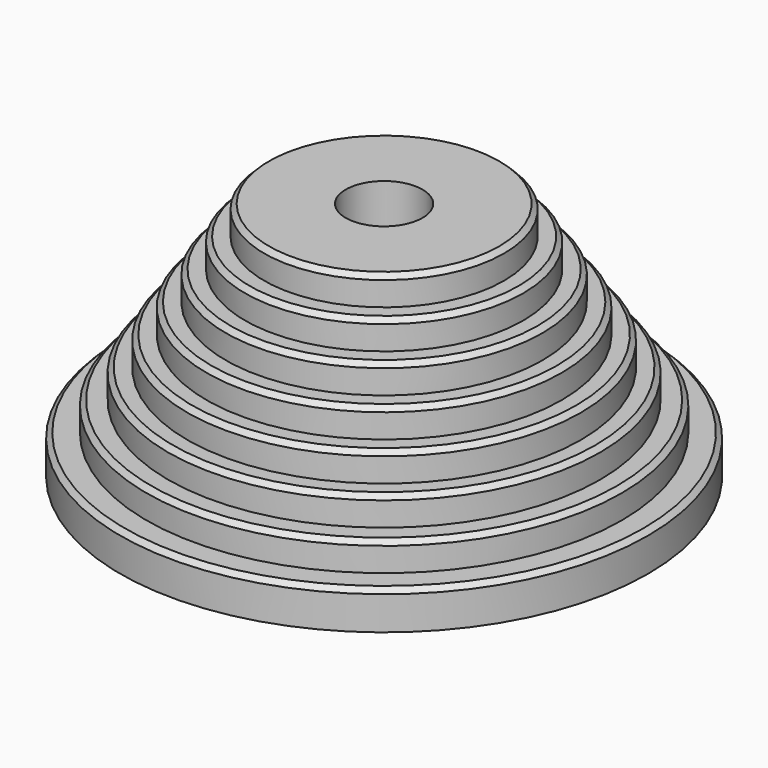
from build123d import *

# Parameters (mm, degrees)
F0_R      = 27.5
F1_DEPTH  = 4
F2_R      = 24.75
F3_DEPTH  = 3
F4_R      = 22.5
F5_DEPTH  = 3
F6_R      = 20.5
F7_DEPTH  = 3
F8_R      = 18.5
F9_DEPTH  = 3
F10_R     = 16.5
F11_DEPTH = 3
F12_R     = 14.5
F13_DEPTH = 3
F14_R     = 12.5
F15_DEPTH = 3
F16_R     = 4
F17_DEPTH = 35
F18_SIZE  = 0.5
F19_SIZE  = 0.5


with BuildPart() as f1:
    # F0 (on Top) → F1 (new body)
    with BuildSketch(Plane.XY):
        Circle(F0_R)
    extrude(amount=F1_DEPTH)

    # F2 (on face) → F3 (join)
    with BuildSketch(Plane.XY.offset(4)):
        Circle(F2_R)
    extrude(amount=F3_DEPTH)

    # F4 (on face) → F5 (join)
    with BuildSketch(Plane.XY.offset(7)):
        Circle(F4_R)
    extrude(amount=F5_DEPTH)

    # F6 (on face) → F7 (join)
    with BuildSketch(Plane.XY.offset(10)):
        Circle(F6_R)
    extrude(amount=F7_DEPTH)

    # F8 (on face) → F9 (join)
    with BuildSketch(Plane.XY.offset(13)):
        Circle(F8_R)
    extrude(amount=F9_DEPTH)

    # F10 (on face) → F11 (join)
    with BuildSketch(Plane.XY.offset(16)):
        Circle(F10_R)
    extrude(amount=F11_DEPTH)

    # F12 (on face) → F13 (join)
    with BuildSketch(Plane.XY.offset(19)):
        Circle(F12_R)
    extrude(amount=F13_DEPTH)

    # F14 (on face) → F15 (join)
    with BuildSketch(Plane.XY.offset(22)):
        Circle(F14_R)
    extrude(amount=F15_DEPTH)

    # F16 (on face) → F17 (cut)
    with BuildSketch(Plane.XY.offset(25)):
        Circle(F16_R)
    extrude(amount=-F17_DEPTH, mode=Mode.SUBTRACT)

    # F18
    f18_edges = [f1.edges().sort_by_distance(p)[0] for p in [
        (-12.5, 0, 25),
    ]]
    chamfer(f18_edges, length=F18_SIZE)

    # F19
    f19_edges = [f1.edges().sort_by_distance(p)[0] for p in [
        (-14.5, 0, 22),
        (-16.5, 0, 19),
        (-18.5, 0, 16),
        (-20.5, 0, 13),
        (-22.5, 0, 10),
        (-24.75, 0, 7),
        (-27.5, 0, 4),
    ]]
    chamfer(f19_edges, length=F19_SIZE)


solid = f1.part
